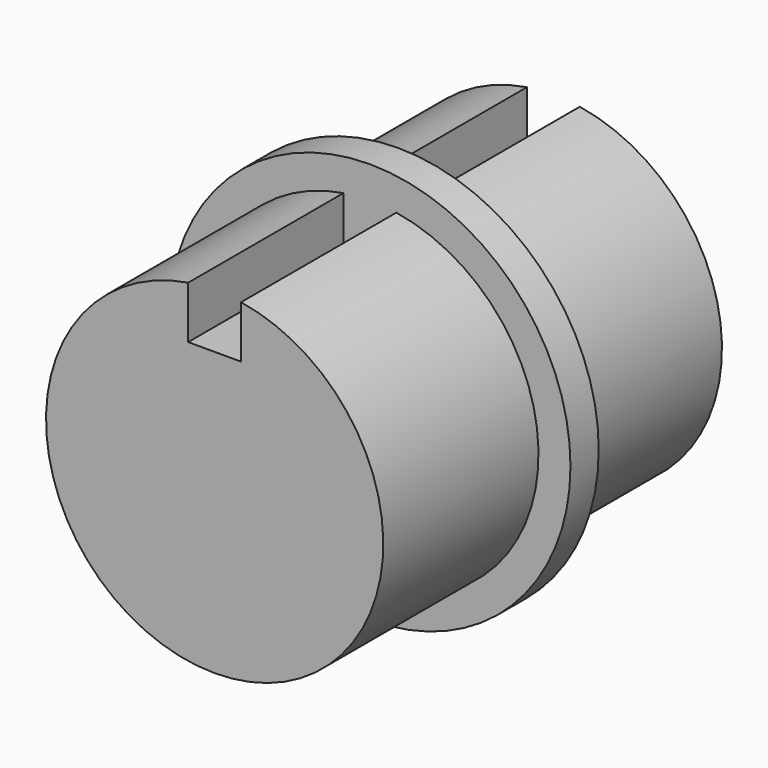
from build123d import *

# Parameters (mm, degrees)
F0_R     = 30.348394
F1_DEPTH = 38.1
F2_W     = 9.519064
F2_H     = 19.576774
F3_DEPTH = 101.6
F4_R     = 36.100393
F5_DEPTH = 3.175


with BuildPart() as f1:
    # F0 (on Front) → F1 (new body, symmetric)
    with BuildSketch(Plane.XZ):
        Circle(F0_R)
    extrude(amount=F1_DEPTH, both=True)

    # F2 (on face) → F3 (cut)
    with BuildSketch(Plane.XZ.offset(38.1)):
        with Locations((0, 30.348394)):
            Rectangle(F2_W, F2_H)
    extrude(amount=-F3_DEPTH, mode=Mode.SUBTRACT)

    # F4 (on Front) → F5 (join, symmetric)
    with BuildSketch(Plane.XZ):
        Circle(F4_R)
    extrude(amount=F5_DEPTH, both=True)


solid = f1.part
